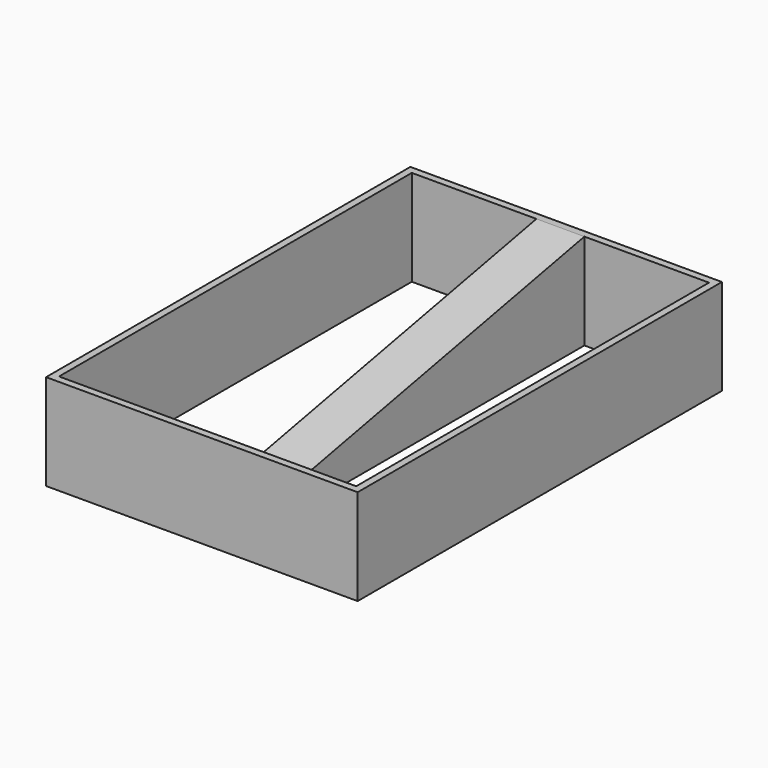
from build123d import *

# Parameters (mm, degrees)
F0_W     = 65
F0_H     = 95
F1_DEPTH = 20
F2_W     = 62
F2_H     = 92
F3_DEPTH = 20
F5_W     = 10
F5_H     = 2
F4_W     = 10
F4_H     = 20


with BuildPart() as f1:
    # F0 (on Top) → F1 (new body)
    with BuildSketch(Plane.XY):
        Rectangle(F0_W, F0_H)
    extrude(amount=F1_DEPTH)

    # F2 (on face) → F3 (cut, through all)
    with BuildSketch(Plane.XY.offset(20)):
        Rectangle(F2_W, F2_H)
    extrude(amount=-F3_DEPTH, mode=Mode.SUBTRACT)

    # F5 (on face) → F6 section 0
    with BuildSketch(Plane(origin=(0, -46, 0), x_dir=(-1, 0, 0), z_dir=(0, 1, 0))):
        with Locations((0, 1)):
            Rectangle(F5_W, F5_H)
    # F4 (on face) → F6 section 1
    with BuildSketch(Plane.XZ.offset(-46)):
        with Locations((0, 10)):
            Rectangle(F4_W, F4_H)
    loft()


solid = f1.part
